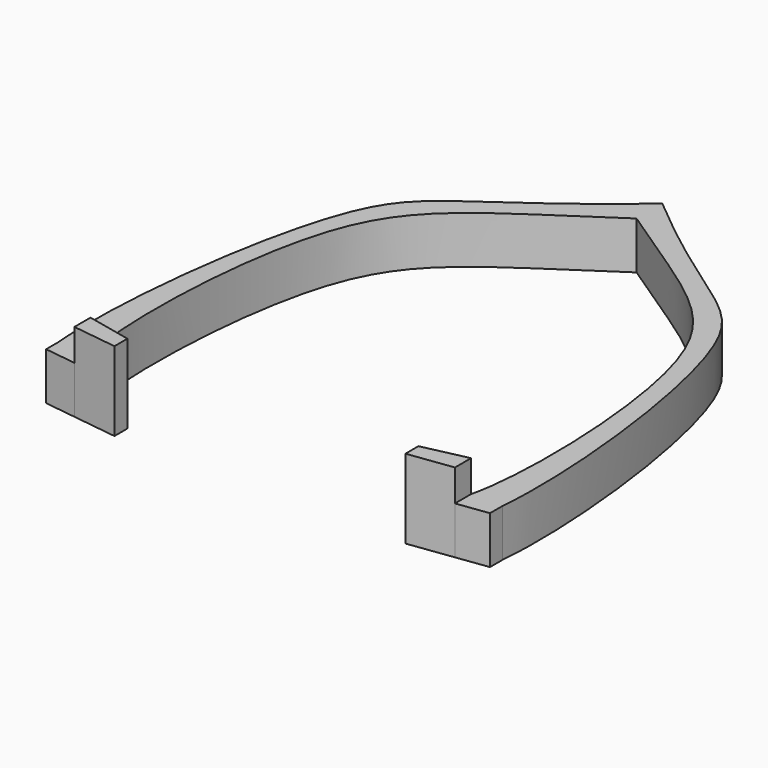
from build123d import *

# Parameters (mm, degrees)
F1_DEPTH = 7.5
F2_DEPTH = 12.5
F3_DEPTH = 12.5


with BuildPart() as f1:
    # F0 (on Top) → F1 (new body)
    with BuildSketch(Plane.XY):
        Polygon((-30.0569813699, -22.1116133034), (-35.0622199476, -22.1116133034), (-35.0622199476, -24.6335370466), (-30.0569813699, -25.2958359819), align=None)
        Polygon((30.0569813699, -25.2958359819), (30.0569813699, -22.1116133034), (22.9866988957, -23.6642416567), (22.9866988957, -26.2313839048), align=None)
        Polygon((-22.9866988957, -23.6642416567), (-30.0569813699, -22.1116133034), (-30.0569813699, -25.2958359819), (-22.9866988957, -26.2313839048), align=None)
        with BuildLine():
            Line((0, 48.1400117278), (0, 53.2320290804))
            add(Edge.make_bspline(
                [(0, 53.2320290804), (-18.8189297915, 37.2051112354), (-30.7187833667, 38.5866822973), (-36.2555484941, -9.0163541808), (-35.0622199476, -22.1116133034)],
                knots=[0, 0, 0, 0, 0.4651611799, 1, 1, 1, 1], degree=3))
            Line((-35.0622199476, -22.1116133034), (-30.0569813699, -22.1116133034))
            add(Edge.make_bspline(
                [(0, 48.1400117278), (-16.1610092806, 37.1547305533), (-31.2765203399, 30.3487738602), (-32.1505479515, -13.5164428502), (-30.0569813699, -22.1116133034)],
                knots=[0, 0, 0, 0, 0.480374946, 1, 1, 1, 1], degree=3))
        make_face()
        with BuildLine():
            add(Edge.make_bspline(
                [(0, 53.2320290804), (18.8189297915, 37.2051112354), (30.7187833667, 38.5866822973), (36.2555484941, -9.0163541808), (35.0622199476, -22.1116133034)],
                knots=[0, 0, 0, 0, 0.4651611799, 1, 1, 1, 1], degree=3))
            Line((0, 53.2320290804), (0, 48.1400117278))
            add(Edge.make_bspline(
                [(0, 48.1400117278), (16.1610092806, 37.1547305533), (31.2765203399, 30.3487738602), (32.1505479515, -13.5164428502), (30.0569813699, -22.1116133034)],
                knots=[0, 0, 0, 0, 0.480374946, 1, 1, 1, 1], degree=3))
            Line((30.0569813699, -22.1116133034), (35.0622199476, -22.1116133034))
        make_face()
        Polygon((35.0622199476, -24.6335370466), (35.0622199476, -22.1116133034), (30.0569813699, -22.1116133034), (30.0569813699, -25.2958359819), align=None)
    extrude(amount=F1_DEPTH)

    # F0 (on Top) → F2 (join)
    with BuildSketch(Plane.XY):
        Polygon((30.0569813699, -25.2958359819), (30.0569813699, -22.1116133034), (22.9866988957, -23.6642416567), (22.9866988957, -26.2313839048), align=None)
    extrude(amount=F2_DEPTH)

    # F0 (on Top) → F3 (join)
    with BuildSketch(Plane.XY):
        Polygon((-22.9866988957, -23.6642416567), (-30.0569813699, -22.1116133034), (-30.0569813699, -25.2958359819), (-22.9866988957, -26.2313839048), align=None)
    extrude(amount=F3_DEPTH)


solid = f1.part
